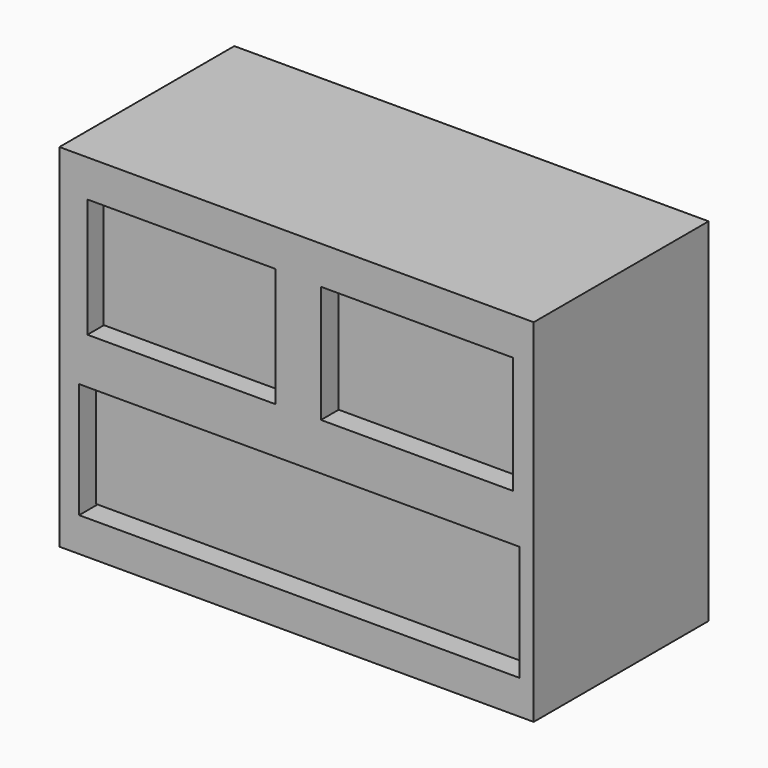
from build123d import *

# Parameters (mm, degrees)
F0_W     = 151.888311
F0_H     = 112.681958
F0_W_2   = 141.087561
F0_H_2   = 36.954511
F0_W_3   = 60.309765
F0_H_3   = 38.137057
F0_W_4   = 61.492307
F0_H_4   = 37.545782
F1_DEPTH = 35
F2_W     = 138.199098
F2_H     = 33.64057
F2_W_2   = 58.189087
F2_H_2   = 36.065116
F2_W_3   = 58.492163
F2_H_3   = 34.852842
F3_DEPTH = 30


with BuildPart() as f1:
    # F0 (on Front) → F1 (new body, symmetric)
    with BuildSketch(Plane.XZ):
        with Locations((0.726045, -0.14521)):
            Rectangle(F0_W, F0_H)
        with Locations((1.631349, -27.065711)):
            Rectangle(F0_W_2, F0_H_2, mode=Mode.SUBTRACT)
        with Locations((-36.09682, 25.261879)):
            Rectangle(F0_W_3, F0_H_3, mode=Mode.SUBTRACT)
        with Locations((39.290384, 25.261877)):
            Rectangle(F0_W_4, F0_H_4, mode=Mode.SUBTRACT)
    extrude(amount=F1_DEPTH, both=True)


with BuildPart() as f3:
    # F2 (on Front) → F3 (new body, symmetric)
    with BuildSketch(Plane.XZ):
        with Locations((1.598906, -27.124603)):
            Rectangle(F2_W, F2_H)
        with Locations((-35.981546, 25.306195)):
            Rectangle(F2_W_2, F2_H_2)
        with Locations((39.330895, 25.306194)):
            Rectangle(F2_W_3, F2_H_3)
    extrude(amount=F3_DEPTH, both=True)


solid = Compound([f1.part, f3.part])
